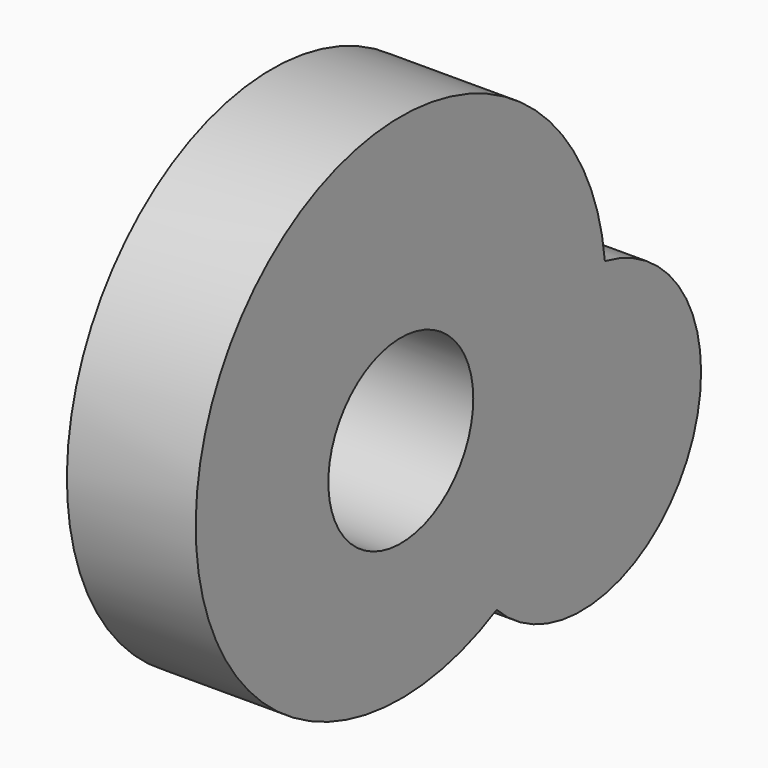
from build123d import *

# Parameters (mm, degrees)
F0_R     = 17.8554750875
F1_DEPTH = 25.4


with BuildPart() as f1:
    # F0 (on Right) → F1 (new body)
    with BuildSketch(Plane.YZ):
        with BuildLine():
            ThreePointArc((23.6229981348, -5.3800642775), (43.2897276497, 13.2181829286), (50.5384211425, 39.2975136638))
            ThreePointArc((50.5384211425, 39.2975136638), (50.4764743034, 41.7990239018), (50.2907856474, 44.29440175))
            ThreePointArc((50.2907856474, 44.29440175), (18.5621090013, 29.3324266036), (23.6229981348, -5.3800642775))
        make_face()
        with BuildLine():
            ThreePointArc((50.2907856474, 44.29440175), (50.4764743034, 41.7990239018), (50.5384211425, 39.2975136638))
            ThreePointArc((50.5384211425, 39.2975136638), (43.2897276497, 13.2181829286), (23.6229981348, -5.3800642775))
            ThreePointArc((23.6229981348, -5.3800642775), (55.7624179669, -11.8521457044), (73.9980777624, 15.3928695638))
            ThreePointArc((73.9980777624, 15.3928695638), (67.3130464279, 34.0833368007), (50.2907856474, 44.29440175))
        make_face()
        with BuildLine():
            ThreePointArc((23.6229981348, -5.3800642775), (18.5621090013, 29.3324266036), (50.2907856474, 44.29440175))
            ThreePointArc((50.2907856474, 44.29440175), (-44.5275196034, 63.2021577638), (23.6229981348, -5.3800642775))
        make_face()
        with Locations((0, 33.5879176855)):
            Circle(F0_R, mode=Mode.SUBTRACT)
    extrude(amount=F1_DEPTH)


solid = f1.part
